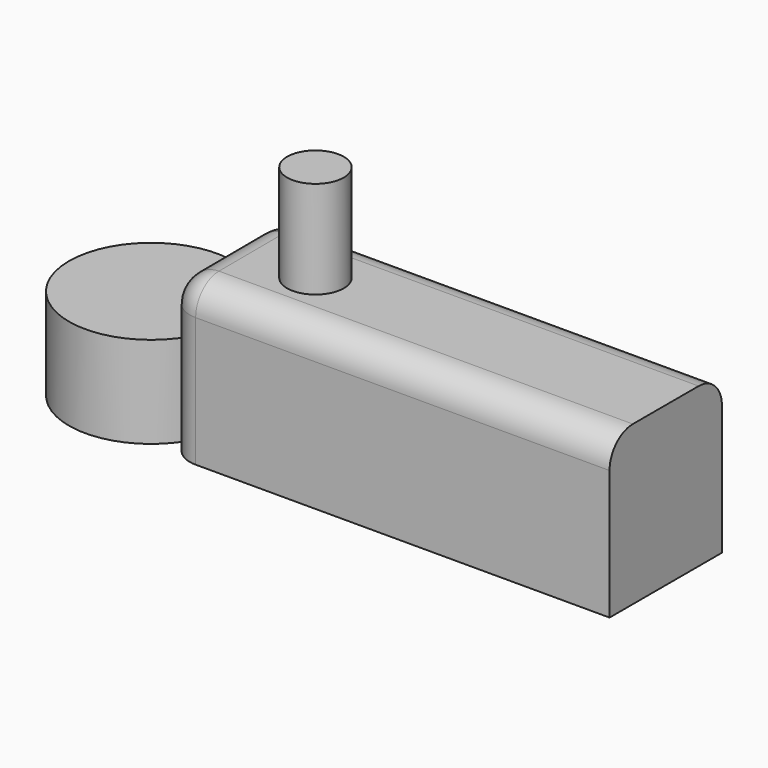
from build123d import *

# Parameters (mm, degrees)
F1_DEPTH = 27.686
F2_R     = 5.08
F3_T     = -2.54
F4_R     = 4.9426127615
F5_DEPTH = 17.018
F7_DEPTH = 16.002


with BuildPart() as f1:
    # F0 (on Top) → F1 (new body)
    with BuildSketch(Plane.XY):
        Polygon((-77.3243010044, 0), (0, 0), (0, 24.5208609849), (-77.4464830756, 24.5208609849), align=None)
    extrude(amount=F1_DEPTH)

    # F2
    f2_edges = [f1.edges().sort_by_distance(p)[0] for p in [
        (-77.446483, 24.520861, 13.843),
        (-38.723242, 24.520861, 27.686),
        (-77.385392, 12.26043, 27.686),
        (-38.662151, 0, 27.686),
        (-77.324301, 0, 13.843),
    ]]
    fillet(f2_edges, radius=F2_R)

    # F3
    f3_openings = [f1.faces().sort_by_distance(p)[0] for p in [
        (-38.472172, 12.262955, 0),
    ]]
    offset(amount=F3_T, openings=f3_openings)

    # F4 (on face) → F5 (join)
    with BuildSketch(Plane.XY.offset(27.686)):
        with Locations((-60.7563629746, 11.7522832006)):
            Circle(F4_R)
    extrude(amount=F5_DEPTH)

    # F6 (on face) → F7 (join)
    with BuildSketch(Plane(origin=(0, 0, 0), x_dir=(1, 0, 0), z_dir=(0, 0, -1))):
        with BuildLine():
            Line((-77.4210444248, -19.4155487735), (-77.3494874048, -5.0546877886))
            ThreePointArc((-77.3494874048, -5.0546877886), (-104.1229765697, -12.1018901343), (-77.4210444248, -19.4155487735))
        make_face()
    extrude(amount=-F7_DEPTH)


solid = f1.part
